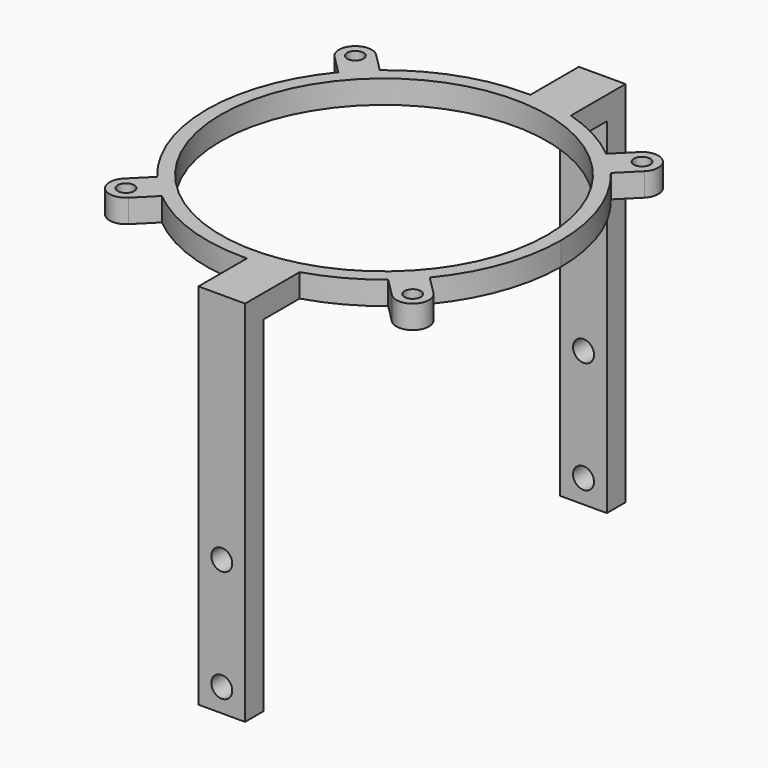
from build123d import *

# Parameters (mm, degrees)
F0_R     = 1.75
F0_R_2   = 35
F1_DEPTH = 5
F2_W     = 10
F2_H     = 5
F3_DEPTH = 74
F4_R     = 2.25
F5_DEPTH = 102.001


with BuildPart() as f1:
    # F0 (on Top) → F1 (new body)
    with BuildSketch(Plane.XY):
        with BuildLine():
            Line((-24.280967, 29.230714), (-28.275126, 33.224874))
            ThreePointArc((-28.275126, 33.224874), (-33.224874, 33.224874), (-33.224874, 28.275126))
            Line((-33.224874, 28.275126), (-29.230714, 24.280967))
            ThreePointArc((-29.230714, 24.280967), (-35.740503, 12.907999), (-38, 0))
            ThreePointArc((-38, 0), (-35.740503, -12.907999), (-29.230714, -24.280967))
            Line((-29.230714, -24.280967), (-33.224874, -28.275126))
            ThreePointArc((-33.224874, -28.275126), (-33.224874, -33.224874), (-28.275126, -33.224874))
            Line((-28.275126, -33.224874), (-24.280967, -29.230714))
            ThreePointArc((-24.280967, -29.230714), (-12.907999, -35.740503), (0, -38))
            ThreePointArc((0, -38), (0.500043, -37.99671), (1, -37.98684))
            ThreePointArc((1, -37.98684), (6.054012, -37.51465), (11, -36.373067))
            ThreePointArc((11, -36.373067), (17.998332, -33.467298), (24.280967, -29.230714))
            Line((24.280967, -29.230714), (28.275126, -33.224874))
            ThreePointArc((28.275126, -33.224874), (33.224874, -33.224874), (33.224874, -28.275126))
            Line((33.224874, -28.275126), (29.230714, -24.280967))
            ThreePointArc((29.230714, -24.280967), (35.740503, -12.907999), (38, 0))
            ThreePointArc((38, 0), (35.740503, 12.907999), (29.230714, 24.280967))
            Line((29.230714, 24.280967), (33.224874, 28.275126))
            ThreePointArc((33.224874, 28.275126), (33.224874, 33.224874), (28.275126, 33.224874))
            Line((28.275126, 33.224874), (24.280967, 29.230714))
            ThreePointArc((24.280967, 29.230714), (17.998332, 33.467298), (11, 36.373067))
            ThreePointArc((11, 36.373067), (6.054012, 37.51465), (1, 37.98684))
            ThreePointArc((1, 37.98684), (0.500043, 37.99671), (0, 38))
            ThreePointArc((0, 38), (-12.907999, 35.740503), (-24.280967, 29.230714))
        make_face()
        with Locations((-30.75, -30.75)):
            Circle(F0_R, mode=Mode.SUBTRACT)
        with Locations((30.75, -30.75)):
            Circle(F0_R, mode=Mode.SUBTRACT)
        with Locations((-30.75, 30.75)):
            Circle(F0_R, mode=Mode.SUBTRACT)
        Circle(F0_R_2, mode=Mode.SUBTRACT)
        with Locations((30.75, 30.75)):
            Circle(F0_R, mode=Mode.SUBTRACT)
        with BuildLine():
            Line((1, 51), (1, 37.98684))
            ThreePointArc((1, 37.98684), (6.054012, 37.51465), (11, 36.373067))
            Line((11, 36.373067), (11, 51))
            Line((11, 51), (1, 51))
        make_face()
        with BuildLine():
            ThreePointArc((11, -36.373067), (6.054012, -37.51465), (1, -37.98684))
            Line((1, -37.98684), (1, -51))
            Line((1, -51), (11, -51))
            Line((11, -51), (11, -36.373067))
        make_face()
    extrude(amount=F1_DEPTH)

    # F2 (on face) → F3 (join)
    with BuildSketch(Plane(origin=(0, 0, 0), x_dir=(1, 0, 0), z_dir=(0, 0, -1))):
        with Locations((6, -48.5)):
            Rectangle(F2_W, F2_H)
        with Locations((6, 48.5)):
            Rectangle(F2_W, F2_H)
    extrude(amount=F3_DEPTH)

    # F4 (on face) → F5 (cut, through all)
    with BuildSketch(Plane(origin=(0, 51, 0), x_dir=(-1, 0, 0), z_dir=(0, 1, 0))):
        with Locations((-6, -69)):
            Circle(F4_R)
        with Locations((-6, -45)):
            Circle(F4_R)
    extrude(amount=-F5_DEPTH, mode=Mode.SUBTRACT)


solid = f1.part
